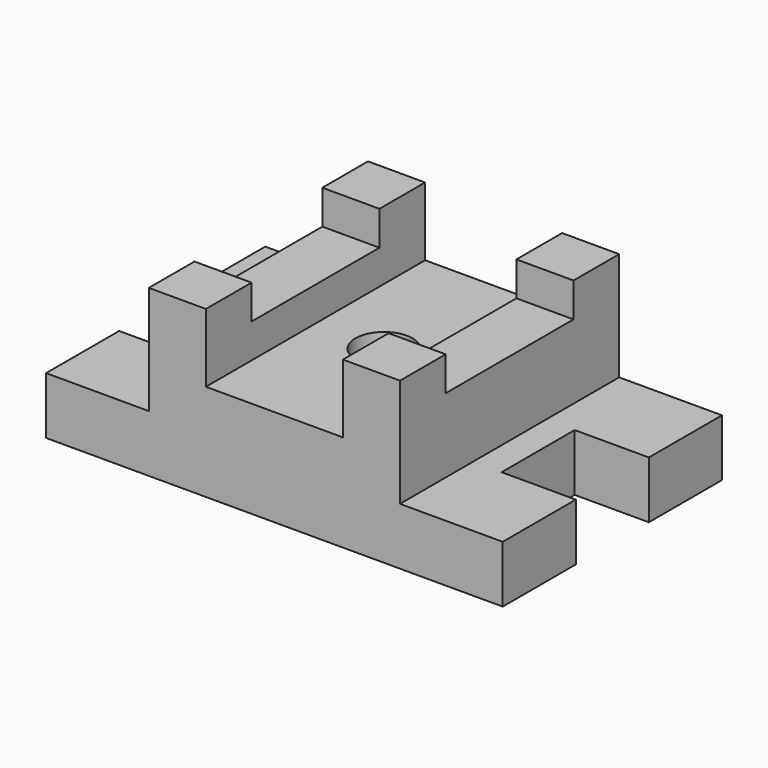
from build123d import *

# Parameters (mm, degrees)
F1_DEPTH = 31.75
F2_W     = 139.7
F2_H     = 152.4
F3_DEPTH = 22.225
F4_W     = 31.75
F4_H     = 152.4
F5_DEPTH = 19.05
F6_W     = 31.75
F6_H     = 31.75
F7_DEPTH = 19.05
F8_R     = 15.875
F9_DEPTH = 53.976


with BuildPart() as f1:
    # F0 (on Top) → F1 (new body)
    with BuildSketch(Plane.XY):
        Polygon((-136.525, -25.4), (-136.525, -76.2), (117.475, -76.2), (117.475, -25.4), (76.2, -25.4), (76.2, 25.4), (117.475, 25.4), (117.475, 76.2), (-136.525, 76.2), (-136.525, 25.4), (-95.25, 25.4), (-95.25, -25.4), align=None)
    extrude(amount=F1_DEPTH)

    # F2 (on face) → F3 (join)
    with BuildSketch(Plane.XY.offset(31.75)):
        with Locations((-9.525, 0)):
            Rectangle(F2_W, F2_H)
    extrude(amount=F3_DEPTH)

    # F4 (on face) → F5 (join)
    with BuildSketch(Plane.XY.offset(53.975)):
        with Locations((-63.5, 0)):
            Rectangle(F4_W, F4_H)
        with Locations((44.45, 0)):
            Rectangle(F4_W, F4_H)
    extrude(amount=F5_DEPTH)

    # F6 (on face) → F7 (join)
    with BuildSketch(Plane.XY.offset(73.025)):
        with Locations((-63.5, -60.325)):
            Rectangle(F6_W, F6_H)
        with Locations((-63.5, 60.325)):
            Rectangle(F6_W, F6_H)
        with Locations((44.45, 60.325)):
            Rectangle(F6_W, F6_H)
        with Locations((44.45, -60.325)):
            Rectangle(F6_W, F6_H)
    extrude(amount=F7_DEPTH)

    # F8 (on face) → F9 (cut, through all)
    with BuildSketch(Plane.XY.offset(53.975)):
        with Locations((-9.525, 0)):
            Circle(F8_R)
    extrude(amount=-F9_DEPTH, mode=Mode.SUBTRACT)


solid = f1.part
